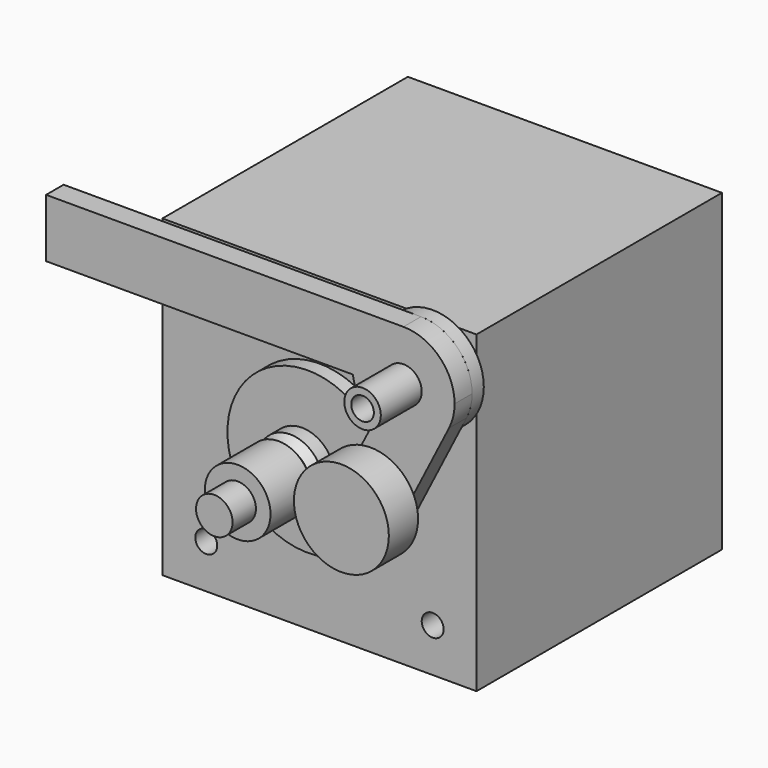
from build123d import *

# Parameters (mm, degrees)
F0_W      = 43
F0_H      = 43
F0_R      = 2.5
F1_DEPTH  = 42
F2_R      = 11
F2_R_2    = 2.5
F3_DEPTH  = 2
F4_D      = 3
F5_R      = 2.5
F6_DEPTH  = 60
F11_R     = 7
F11_R_2   = 1.55
F12_DEPTH = 2
F13_R     = 2.5
F13_R_2   = 1.55
F14_DEPTH = 10
F15_R     = 2.5
F16_DEPTH = 3
F17_R     = 6.5
F18_DEPTH = 5


with BuildPart() as f1:
    # F0 (on Front) → F1 (new body)
    with BuildSketch(Plane.XZ):
        Rectangle(F0_W, F0_H)
        Circle(F0_R, mode=Mode.SUBTRACT)
    extrude(amount=-F1_DEPTH)

    # F2 (on face) → F3 (join)
    with BuildSketch(Plane.XZ):
        Circle(F2_R)
        Circle(F2_R_2, mode=Mode.SUBTRACT)
    extrude(amount=F3_DEPTH)

    # F4 (through all)
    with Locations(Plane.XZ):
        with Locations((-15.5, 15.5), (15.5, 15.5), (15.5, -15.5), (-15.5, -15.5)):
            Hole(F4_D / 2)


with BuildPart() as f6:
    # F5 (on face) → F6 (new body)
    with BuildSketch(Plane(origin=(0, 42, 0), x_dir=(-1, 0, 0), z_dir=(0, 1, 0))):
        Circle(F5_R)
    extrude(amount=-F6_DEPTH)


with BuildPart() as f10:
    # F9 (on Right) → F10 (revolve)
    with BuildSketch(Plane.YZ):
        Polygon((-14, 2.5), (-3, 2.5), (-3, 4.5), (-5, 4.5), (-6, 3.5), (-7, 4.5), (-14, 4.5), align=None)
    revolve(axis=Axis((0, -18, 0), (0, 1, 0)))


with BuildPart() as f12:
    # F11 (on face) → F12 (new body)
    with BuildSketch(Plane.XZ):
        with Locations((15.5, 15.5)):
            Circle(F11_R)
        with Locations((15.5, 15.5)):
            Circle(F11_R_2, mode=Mode.SUBTRACT)
    extrude(amount=F12_DEPTH)

    # F13 (on face) → F14 (join)
    with BuildSketch(Plane.XZ.offset(2)):
        with Locations((15.5, 15.5)):
            Circle(F13_R)
        with Locations((15.5, 15.5)):
            Circle(F13_R_2, mode=Mode.SUBTRACT)
    extrude(amount=F14_DEPTH)


with BuildPart() as f16:
    # F15 (on face) → F16 (new body)
    with BuildSketch(Plane.XZ.offset(2)):
        with BuildLine():
            ThreePointArc((21.742513, 12.332819), (22.307995, 13.871748), (22.5, 15.5))
            ThreePointArc((22.5, 15.5), (20.449747, 20.449747), (15.5, 22.5))
            ThreePointArc((15.5, 22.5), (10.208497, 20.082576), (8.571797, 14.5))
            ThreePointArc((8.571797, 14.5), (9.534672, 11.837369), (11.473516, 9.773969))
            ThreePointArc((11.473516, 9.773969), (17.19252, 8.707697), (21.742513, 12.332819))
        make_face()
        with Locations((15.5, 15.5)):
            Circle(F15_R, mode=Mode.SUBTRACT)
        with BuildLine():
            ThreePointArc((8.571797, 14.5), (10.208497, 20.082576), (15.5, 22.5))
            Line((15.5, 22.5), (-33.428203, 22.5))
            Line((-33.428203, 22.5), (-33.428203, 14.5))
            Line((-33.428203, 14.5), (8.571797, 14.5))
        make_face()
        with BuildLine():
            Line((14.56715, -1.809818), (21.742513, 12.332819))
            ThreePointArc((21.742513, 12.332819), (17.19252, 8.707697), (11.473516, 9.773969))
            Line((11.473516, 9.773969), (7.43285, 1.809818))
            Line((7.43285, 1.809818), (5.623032, -1.757332))
            Line((5.623032, -1.757332), (12.757332, -5.376968))
            Line((12.757332, -5.376968), (14.56715, -1.809818))
        make_face()
    extrude(amount=F16_DEPTH)


with BuildPart() as f18:
    # F17 (on face) → F18 (new body)
    with BuildSketch(Plane.XZ.offset(5)):
        with Locations((11, 0)):
            Circle(F17_R)
    extrude(amount=F18_DEPTH)


solid = Compound([f1.part, f6.part, f10.part, f12.part, f16.part, f18.part])
